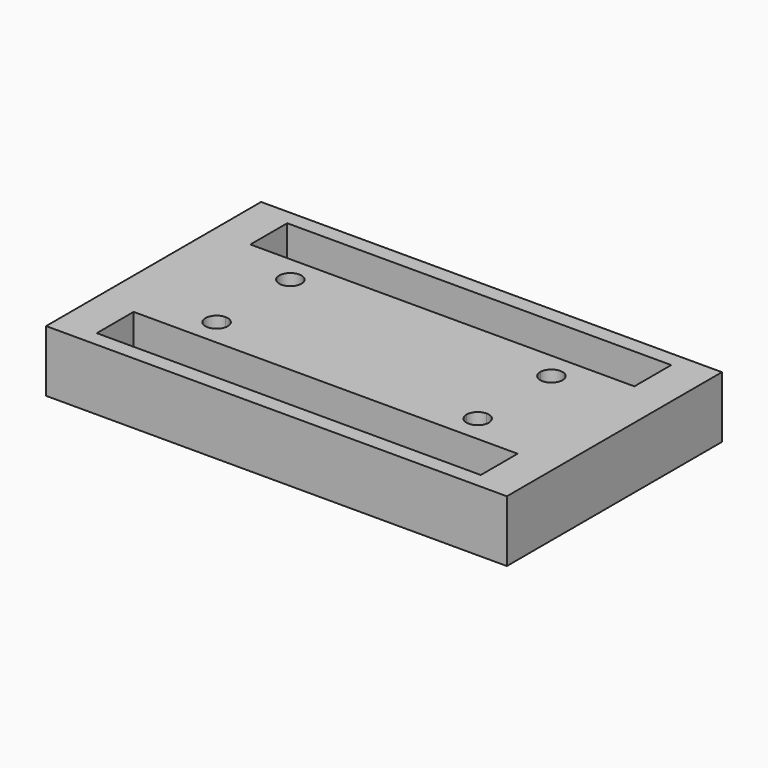
from build123d import *

# Parameters (mm, degrees)
F0_W     = 60
F0_H     = 35
F1_DEPTH = 8
F0_W_2   = 50
F0_H_2   = 1.4
F2_DEPTH = 3
F4_DEPTH = 4
F5_DEPTH = 25


with BuildPart() as f1:
    # F0 (on Top) → F1 (new body)
    with BuildSketch(Plane.XY):
        Rectangle(F0_W, F0_H)
        Polygon((-25, -10.9), (-25, -9.5), (25, -9.5), (25, -10.9), (25, -12.5), (25, -14.1), (25, -15.5), (-25, -15.5), (-25, -14.1), (-25, -12.5), align=None, mode=Mode.SUBTRACT)
        Polygon((-25, 10.9), (-25, 12.5), (-25, 14.1), (-25, 15.5), (25, 15.5), (25, 14.1), (25, 12.5), (25, 10.9), (25, 9.5), (-25, 9.5), align=None, mode=Mode.SUBTRACT)
    extrude(amount=F1_DEPTH)

    # F0 (on Top) → F2 (join)
    with BuildSketch(Plane.XY):
        with Locations((0, 14.8)):
            Rectangle(F0_W_2, F0_H_2)
        with Locations((0, 10.2)):
            Rectangle(F0_W_2, F0_H_2)
        with Locations((0, -10.2)):
            Rectangle(F0_W_2, F0_H_2)
        with Locations((0, -14.8)):
            Rectangle(F0_W_2, F0_H_2)
    extrude(amount=F2_DEPTH)

    # F3 (on face) → F4 (cut)
    with BuildSketch(Plane(origin=(0, 0, 0), x_dir=(1, 0, 0), z_dir=(0, 0, -1))):
        with BuildLine():
            ThreePointArc((-14, 6), (-19.1213203436, 8.1213203436), (-17, 3))
            Line((-17, 3), (-17, 4.55))
            ThreePointArc((-17, 4.55), (-18.0253048327, 7.0253048327), (-15.55, 6))
            Line((-15.55, 6), (-14, 6))
        make_face()
        with BuildLine():
            Line((-17, 4.55), (-17, 3))
            ThreePointArc((-17, 3), (-14.8786796564, 3.8786796564), (-14, 6))
            Line((-14, 6), (-15.55, 6))
            ThreePointArc((-15.55, 6), (-15.9746951673, 4.9746951673), (-17, 4.55))
        make_face()
        with BuildLine():
            ThreePointArc((-17, -3), (-19.1213203436, -8.1213203436), (-14, -6))
            Line((-14, -6), (-15.55, -6))
            ThreePointArc((-15.55, -6), (-18.0253048327, -7.0253048327), (-17, -4.55))
            Line((-17, -4.55), (-17, -3))
        make_face()
        with BuildLine():
            Line((-15.55, -6), (-14, -6))
            ThreePointArc((-14, -6), (-14.8786796564, -3.8786796564), (-17, -3))
            Line((-17, -3), (-17, -4.55))
            ThreePointArc((-17, -4.55), (-15.9746951673, -4.9746951673), (-15.55, -6))
        make_face()
        with BuildLine():
            ThreePointArc((14, 6), (14.8786796564, 3.8786796564), (17, 3))
            Line((17, 3), (17, 4.55))
            ThreePointArc((17, 4.55), (15.9746951673, 4.9746951673), (15.55, 6))
            Line((15.55, 6), (14, 6))
        make_face()
        with BuildLine():
            Line((17, 4.55), (17, 3))
            ThreePointArc((17, 3), (19.1213203436, 3.8786796564), (20, 6))
            ThreePointArc((20, 6), (17, 9), (14, 6))
            Line((14, 6), (15.55, 6))
            ThreePointArc((15.55, 6), (17, 7.45), (18.45, 6))
            ThreePointArc((18.45, 6), (18.0253048327, 4.9746951673), (17, 4.55))
        make_face()
        with BuildLine():
            ThreePointArc((17, -3), (14.8786796564, -3.8786796564), (14, -6))
            Line((14, -6), (15.55, -6))
            ThreePointArc((15.55, -6), (15.9746951673, -4.9746951673), (17, -4.55))
            Line((17, -4.55), (17, -3))
        make_face()
        with BuildLine():
            Line((15.55, -6), (14, -6))
            ThreePointArc((14, -6), (17, -9), (20, -6))
            ThreePointArc((20, -6), (19.1213203436, -3.8786796564), (17, -3))
            Line((17, -3), (17, -4.55))
            ThreePointArc((17, -4.55), (18.0253048327, -4.9746951673), (18.45, -6))
            ThreePointArc((18.45, -6), (17, -7.45), (15.55, -6))
        make_face()
    extrude(amount=-F4_DEPTH, mode=Mode.SUBTRACT)

    # F5 (cut): faces of the model
    f5_faces = [f1.faces().sort_by_distance(p)[0] for p in [
        (-17, 6, 0),
        (17, 6, 0),
        (17, -6, 0),
        (-17, -6, 0),
    ]]
    extrude(f5_faces, amount=-F5_DEPTH, mode=Mode.SUBTRACT)


solid = f1.part
